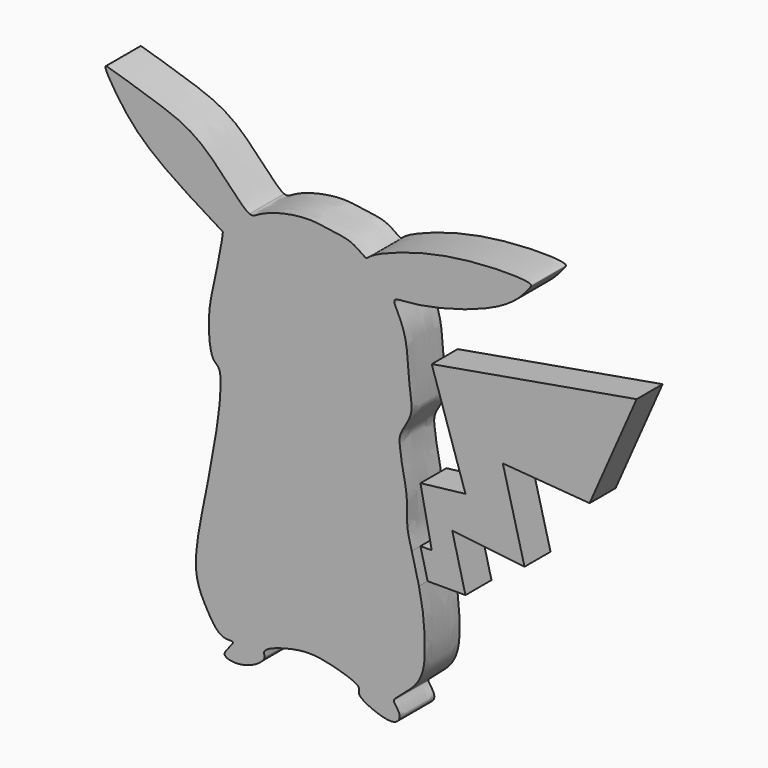
from build123d import *

# Parameters (mm, degrees)
F1_DEPTH = 10.16
F2_DEPTH = 7.62


with BuildPart() as f1:
    # F0 (on Front) → F1 (new body)
    with BuildSketch(Plane.XZ):
        with BuildLine():
            add(Edge.make_bspline(
                [(-16.5223479271, 39.7857092321), (-15.7651721627, 39.480871296), (-14.5589803795, 40.4430325742), (-9.3118043925, 42.5966883327), (-1.9360381488, 43.48351969), (2.1808302369, 42.4376464102), (7.5900150213, 42.2172938458), (10.8586766262, 39.0916114585), (11.5719861441, 40.7094561305), (28.1450408594, 47.6018758136), (50.476450283, 47.5222780112), (49.0280855, 45.7044078845), (45.5530673492, 41.1558125114), (35.0090790983, 36.3418812697), (22.5884714287, 33.4907726338), (17.9565430261, 33.5531588161), (16.9569925385, 32.5903283126), (20.6544103684, 27.2725050684), (20.6184396313, 16.5510003713), (22.1922374361, 10.6414338932), (18.3393006593, 6.0110138755), (18.7772594702, 2.8936256269), (19.235378097, -0.998027871), (20.6719359562, -6.6740722175), (20.1335687458, -12.5453173828), (20.9796080989, -15.5164624949), (21.5098410845, -17.4612924457)],
                knots=[0, 0, 0, 0, 0.0095923747, 0.025876326, 0.0445920486, 0.0588024542, 0.0748749995, 0.088012143, 0.094175992, 0.1237233234, 0.154697847, 0.1604703751, 0.1761546731, 0.2000337802, 0.2249812045, 0.2387956846, 0.244603949, 0.2607971442, 0.2837335195, 0.300449948, 0.3161790213, 0.3278874403, 0.3413433645, 0.3580180371, 0.3744117702, 0.3899969974, 0.3899969974, 0.3899969974, 0.3899969974], degree=3))
            add(Edge.make_bspline(
                [(23.1920970436, -24.1485182196), (23.4177235249, -25.1689254289), (24.2931224442, -29.4884745723), (24.7771551524, -36.1109456346), (24.2570580061, -44.5561165638), (17.1244194481, -49.1175262925), (17.318381094, -50.0825984079), (19.1698252974, -52.2458201887), (17.9216267498, -54.3781878606), (14.2480056514, -54.1172745311), (8.2259469154, -51.3291927739), (10.1990631545, -49.1372644352), (0.7824132385, -46.4105547936), (-4.9473307407, -46.0525771622), (-14.0956335522, -48.8252891859), (-12.2613416303, -51.0135083962), (-17.174441272, -54.3472281437), (-22.1626417297, -53.9330321343), (-22.647215964, -52.451429833), (-19.1725165317, -49.2363721505), (-23.4343828555, -50.3678756954), (-26.7425132222, -44.824417668), (-29.7768508084, -38.8301004191), (-28.3053011663, -27.8916694259), (-25.6533899236, -16.3512017727), (-22.0298607549, 5.8126477898), (-25.7807166889, 6.5064548538), (-26.4561283029, 16.4358035221), (-24.7226723987, 22.9426370936), (-22.6152010487, 33.9222971786), (-23.0580742139, 34.2281040036), (-39.3491433354, 43.9064616044), (-46.3776917602, 51.9141154187), (-51.0763627354, 59.6108920896), (-48.9189941335, 59.1073331356), (-37.9137412309, 55.5932484838), (-27.1672422322, 51.9085651422), (-18.5892712756, 40.6178497697), (-16.5223479271, 39.7857092321)],
                knots=[0.4052330687, 0.4052330687, 0.4052330687, 0.4052330687, 0.4116843708, 0.4323810834, 0.4521238233, 0.4706394641, 0.4762619297, 0.4872282383, 0.4963094234, 0.509498295, 0.5259671148, 0.5335799653, 0.5528632115, 0.5717953375, 0.5907723015, 0.5987236685, 0.6142989201, 0.6291766646, 0.6361462339, 0.6482960141, 0.6583630441, 0.6750972651, 0.6930390463, 0.7147180044, 0.7404137076, 0.7712859105, 0.7819045161, 0.8018541048, 0.8221378368, 0.8437263205, 0.848084822, 0.8765637967, 0.9020252109, 0.9196380224, 0.9260167874, 0.9486858006, 0.9738149262, 1, 1, 1, 1], degree=3))
            add(Edge.make_bspline(
                [(21.5098410845, -17.4612924457), (22.0281952614, -19.3625523743), (22.6592338932, -21.7386175853), (23.1920970436, -24.1485182196)],
                knots=[0.3899969974, 0.3899969974, 0.3899969974, 0.3899969974, 0.4052330687, 0.4052330687, 0.4052330687, 0.4052330687], degree=3))
        make_face()
    extrude(amount=F1_DEPTH)

    # F0 (on Front) → F2 (join)
    with BuildSketch(Plane.XZ):
        with BuildLine():
            Line((24.1470579058, -17.4612924457), (21.5098410845, -17.4612924457))
            add(Edge.make_bspline(
                [(21.5098410845, -17.4612924457), (22.0281952614, -19.3625523743), (22.6592338932, -21.7386175853), (23.1920970436, -24.1485182196)],
                knots=[0.3899969974, 0.3899969974, 0.3899969974, 0.3899969974, 0.4052330687, 0.4052330687, 0.4052330687, 0.4052330687], degree=3))
            Line((23.1920970436, -24.1485182196), (32.0587046444, -24.1485182196))
            Line((32.0587046444, -24.1485182196), (28.9505571127, -11.8101164699))
            Line((28.9505571127, -11.8101164699), (45.9040850401, -13.7880286202))
            Line((45.9040850401, -13.7880286202), (40.818028152, 5.8969017118))
            Line((40.818028152, 5.8969017118), (61.1622594297, 4.2957351543))
            Line((61.1622594297, 4.2957351543), (72.1847986147, 29.3492823839))
            Line((72.1847986147, 29.3492823839), (24.1470579058, 20.9667067975))
            Line((24.1470579058, 20.9667067975), (32.0587046444, -3.2391664572))
            Line((32.0587046444, -3.2391664572), (21.5098410845, -4.4635878876))
            Line((21.5098410845, -4.4635878876), (24.1470579058, -17.4612924457))
        make_face()
    extrude(amount=F2_DEPTH)


solid = f1.part
